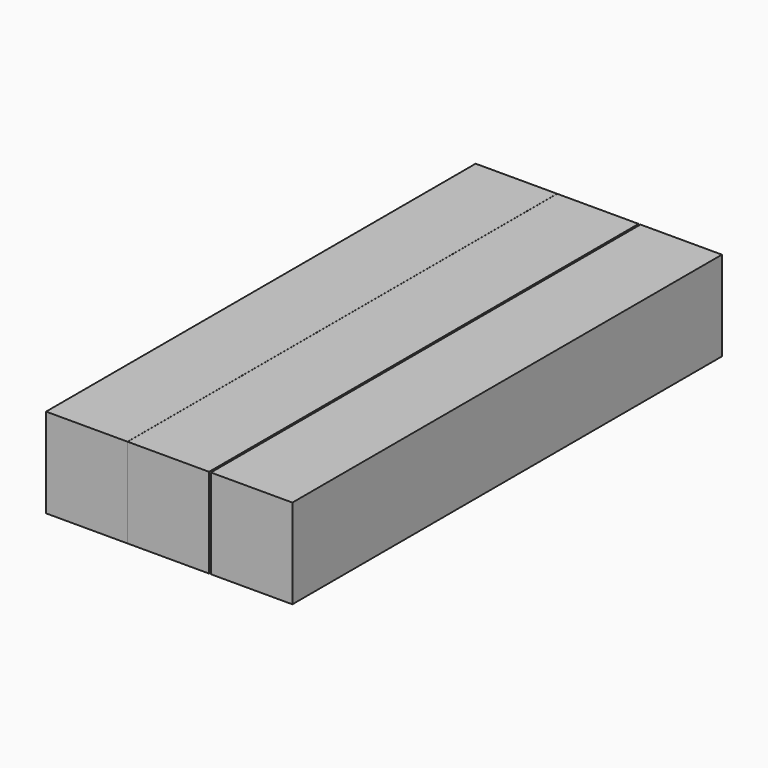
from build123d import *

# Parameters (mm, degrees)
F0_W     = 23.090131
F0_H     = 152.233794
F1_DEPTH = 25.4


with BuildPart() as f1:
    # F0 (on Top) → F1 (new body)
    with BuildSketch(Plane.XY):
        with Locations((-64.84032, -0.402734)):
            Rectangle(F0_W, F0_H)
    extrude(amount=F1_DEPTH)


with BuildPart() as f2_1:
    # F2: copy of F1
    add(f1.part.moved(Location((23.114, 0, 0))))


with BuildPart() as f3_1:
    # F3: copy of F2_1
    add(f2_1.part.moved(Location((23.622, 0, 0))))


solid = Compound([f1.part, f2_1.part, f3_1.part])
